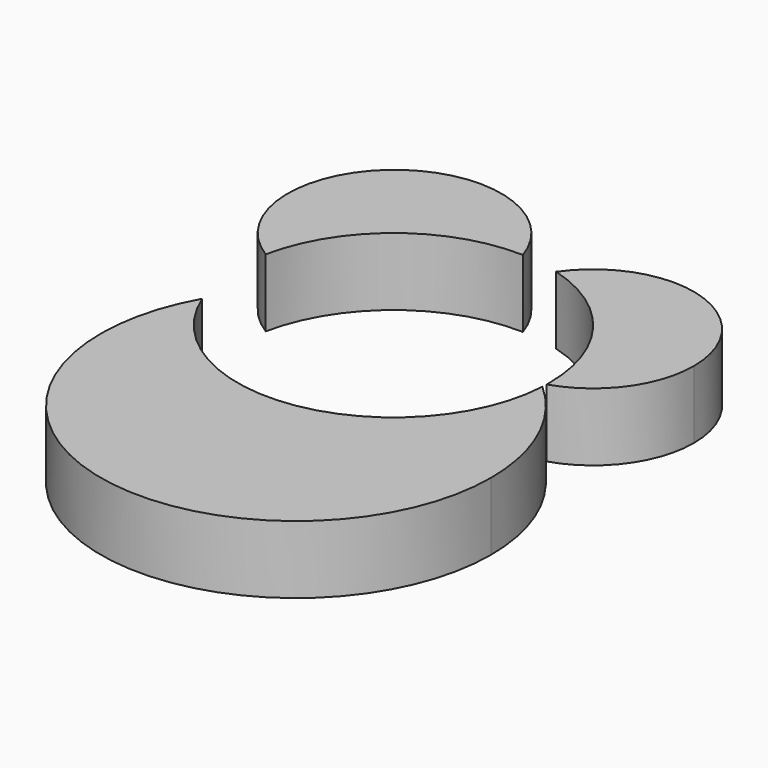
from build123d import *

# Parameters (mm, degrees)
F1_DEPTH = 7.9


with BuildPart() as f1:
    # F0 (on Top) → F1 (new body)
    with BuildSketch(Plane.XY):
        with BuildLine():
            ThreePointArc((-17.7984656922, 3.6461317849), (-11.2718866237, 14.2486571274), (0.5481196543, 18.1598244164))
            ThreePointArc((0.5481196543, 18.1598244164), (-18.9963226132, 24.0130243173), (-17.7984656922, 3.6461317849))
        make_face()
    extrude(amount=F1_DEPTH)


with BuildPart() as f1b:
    # F0 (on Top) → F1, piece 2 (new body)
    with BuildSketch(Plane.XY):
        with BuildLine():
            ThreePointArc((25.7077028639, -17.9231219126), (23.7300574383, -8.6489895256), (18.1411905374, -0.9883642426))
            ThreePointArc((18.1411905374, -0.9883642426), (2.9734422638, -17.9231219126), (-16.8501928605, -6.7934275999))
            ThreePointArc((-16.8501928605, -6.7934275999), (-2.778553828, -39.9176927426), (25.7077028639, -17.9231219126))
        make_face()
    extrude(amount=F1_DEPTH)


with BuildPart() as f1c:
    # F0 (on Top) → F1, piece 3 (new body)
    with BuildSketch(Plane.XY):
        with BuildLine():
            ThreePointArc((4.9810875648, 17.4719324822), (14.5013193816, 10.9449254993), (18.1680945063, 0))
            ThreePointArc((18.1680945063, 0), (18.1669359704, -0.2051717319), (18.1634605102, -0.4103172972))
            ThreePointArc((18.1634605102, -0.4103172972), (24.0924893274, 3.8443968888), (26.3611761784, 10.7804646142))
            ThreePointArc((26.3611761784, 10.7804646142), (18.1297663877, 21.9818476912), (4.9810875648, 17.4719324822))
        make_face()
    extrude(amount=F1_DEPTH)


solid = Compound([f1.part, f1b.part, f1c.part])
